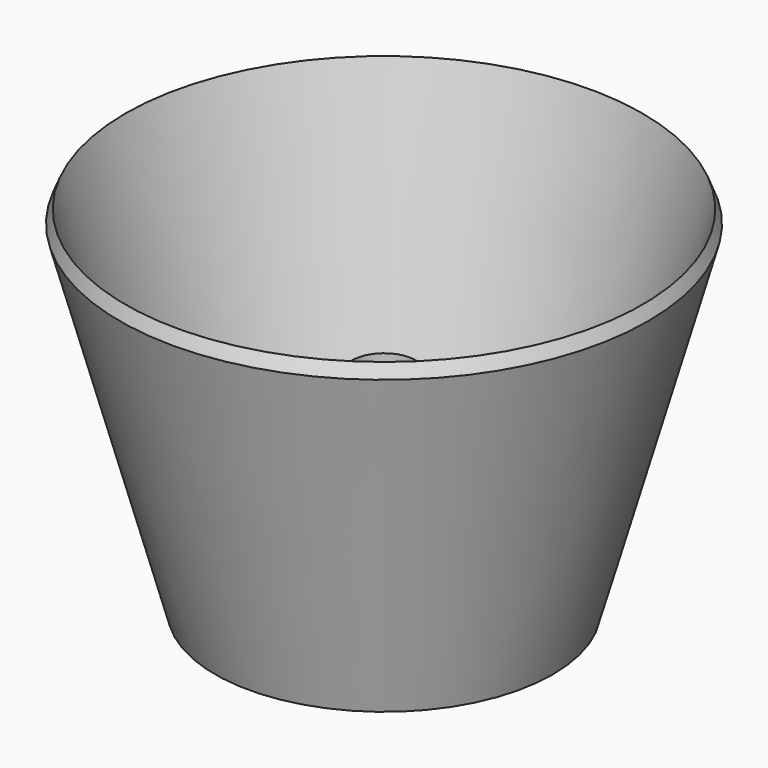
from build123d import *


with BuildPart() as part:
    # Sketch → Revolution (revolve)
    with BuildSketch(Plane.XZ):
        with BuildLine():
            Line((-50, 34.7391), (-32, -30))
            Line((-32, -30), (-30, -30))
            ThreePointArc((-6.05, -10), (-22.702813, -14.398319), (-30, -30))
            Line((-6.05, 10), (-6.05, -10))
            Line((-6.05, 10), (-11.265964, -7.547867))
            ThreePointArc((-11.265964, -7.547867), (-24.914311, -13.814151), (-31, -27.543976))
            Line((-49, 37.195124), (-31, -27.543976))
            Line((-50, 34.7391), (-49, 37.195124))
        make_face()
    revolve(axis=Axis((0, 0, 0), (0, 0, 1)))


solid = part.part
